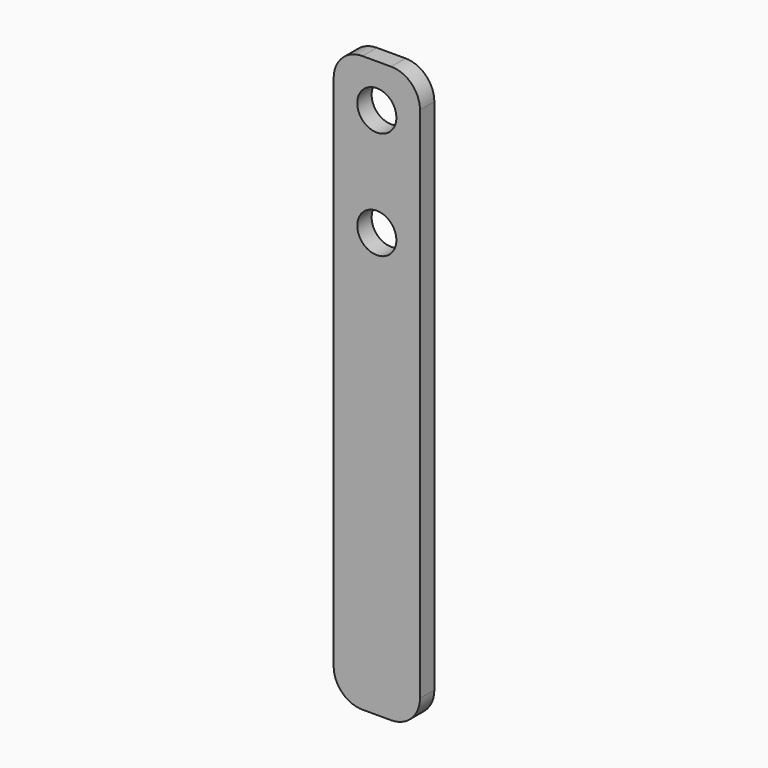
from build123d import *

# Parameters (mm, degrees)
F1_DEPTH = 1.5875
F2_R     = 1.7272
F3_DEPTH = 1.5885


with BuildPart() as f1:
    # F0 (on Front) → F1 (new body)
    with BuildSketch(Plane.XZ):
        with BuildLine():
            Line((5.08, 0), (2.54, 0))
            ThreePointArc((2.54, 0), (0.743949, -0.743949), (0, -2.54))
            Line((0, -2.54), (0, -48.26))
            ThreePointArc((0, -48.26), (0.743949, -50.056051), (2.54, -50.8))
            Line((2.54, -50.8), (5.08, -50.8))
            ThreePointArc((5.08, -50.8), (6.876051, -50.056051), (7.62, -48.26))
            Line((7.62, -48.26), (7.62, -2.54))
            ThreePointArc((7.62, -2.54), (6.876051, -0.743949), (5.08, 0))
        make_face()
    extrude(amount=F1_DEPTH)

    # F2 (on Front) → F3 (cut, through all)
    with BuildSketch(Plane.XZ):
        with Locations((3.81, -3.81)):
            Circle(F2_R)
        with Locations((3.81, -13.335)):
            Circle(F2_R)
    extrude(amount=F3_DEPTH, mode=Mode.SUBTRACT)


solid = f1.part
